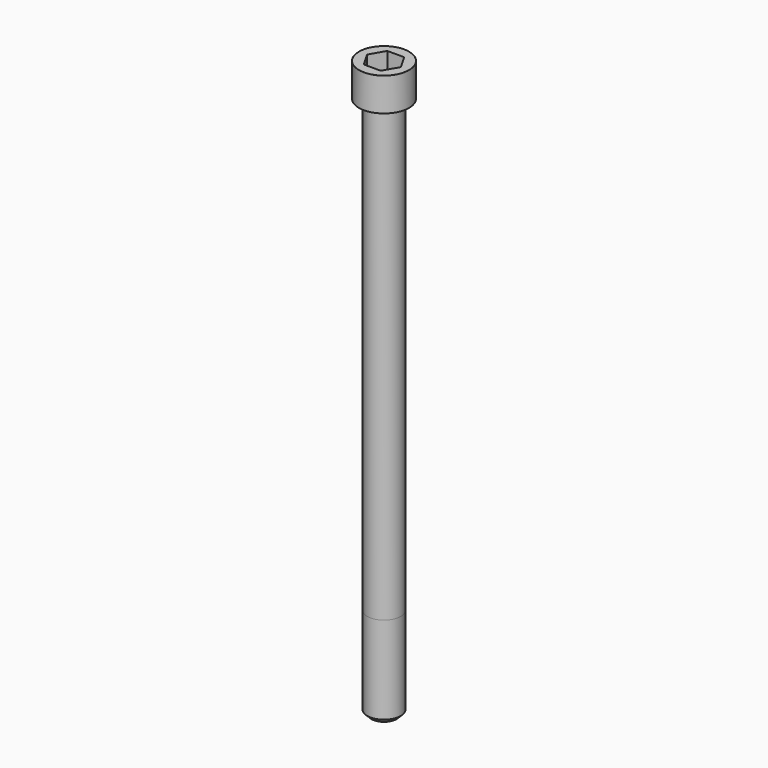
from build123d import *

# Parameters (mm, degrees)
POCKET_DEPTH = 14.08


with BuildPart() as part:
    # Sketch → Revolve (revolve)
    with BuildSketch(Plane.YZ):
        with BuildLine():
            Line((7.999, 0), (12, 0))
            Line((12, 0), (12, 15.97229))
            ThreePointArc((12, 15.97229), (11.991884, 15.991884), (11.97229, 16))
            Line((11.97229, 16), (0, 16))
            Line((0, -260), (0, 16))
            Line((6, -260), (0, -260))
            Line((8, -258), (6, -260))
            Line((8, -216), (8, -258))
            Line((7.999, 0), (8, -216))
        make_face()
    revolve(axis=Axis((0, 0, 0), (0, 0, 1)))

    # Sketch001 → Pocket (cut)
    with BuildSketch(Plane.XY.offset(16)):
        Polygon((8.129092, 0), (4.064546, 7.04), (-4.064546, 7.04), (-8.129092, 0), (-4.064546, -7.04), (4.064546, -7.04), align=None)
    extrude(amount=-POCKET_DEPTH, mode=Mode.SUBTRACT)


solid = part.part
